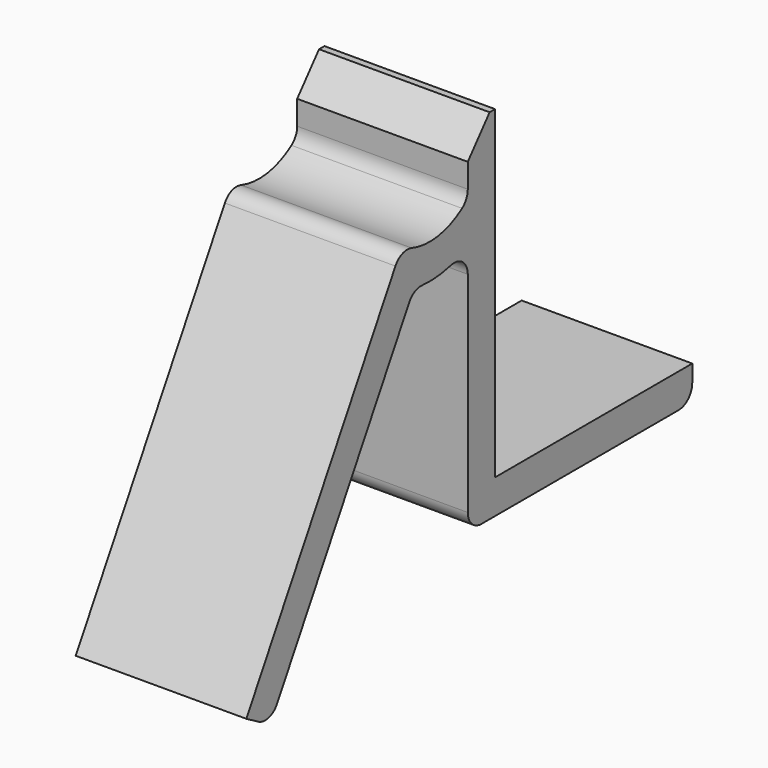
from build123d import *

# Parameters (mm, degrees)
F3_DEPTH = 10


with BuildPart() as f3:
    # F2 (on Right) → F3 (new body)
    with BuildSketch(Plane.YZ):
        with BuildLine():
            Line((7.768028, 18), (7.768028, 37))
            Line((7.768028, 37), (7.368028, 37))
            Line((7.368028, 37), (5.768028, 35.093194))
            Line((5.768028, 35.093194), (5.768028, 33.676114))
            ThreePointArc((5.768028, 33.676114), (5.657029, 33.218209), (5.348673, 32.861957))
            ThreePointArc((5.348673, 32.861957), (3.567098, 32.144003), (1.654039, 32.316261))
            ThreePointArc((1.654039, 32.316261), (0.980832, 32.304735), (0.467528, 31.869007))
            Line((0.467528, 31.869007), (-10.456972, 12.947218))
            Line((-10.456972, 12.947218), (-9.574866, 12.437934))
            ThreePointArc((-9.574866, 12.437934), (-8.816046, 12.338033), (-8.20884, 12.803959))
            Line((-8.20884, 12.803959), (1.478715, 29.583296))
            ThreePointArc((1.478715, 29.583296), (1.883032, 29.970328), (2.431987, 30.079483))
            ThreePointArc((2.431987, 30.079483), (3.481519, 30.07755), (4.516067, 30.254275))
            ThreePointArc((4.516067, 30.254275), (5.379599, 30.077727), (5.768028, 29.286538))
            Line((5.768028, 29.286538), (5.768028, 17))
            ThreePointArc((5.768028, 17), (6.060921, 16.292893), (6.768028, 16))
            Line((6.768028, 16), (21.214821, 16))
            ThreePointArc((21.214821, 16), (21.921927, 16.292893), (22.214821, 17))
            Line((22.214821, 17), (22.214821, 18))
            Line((22.214821, 18), (7.768028, 18))
        make_face()
    extrude(amount=F3_DEPTH)


solid = f3.part
